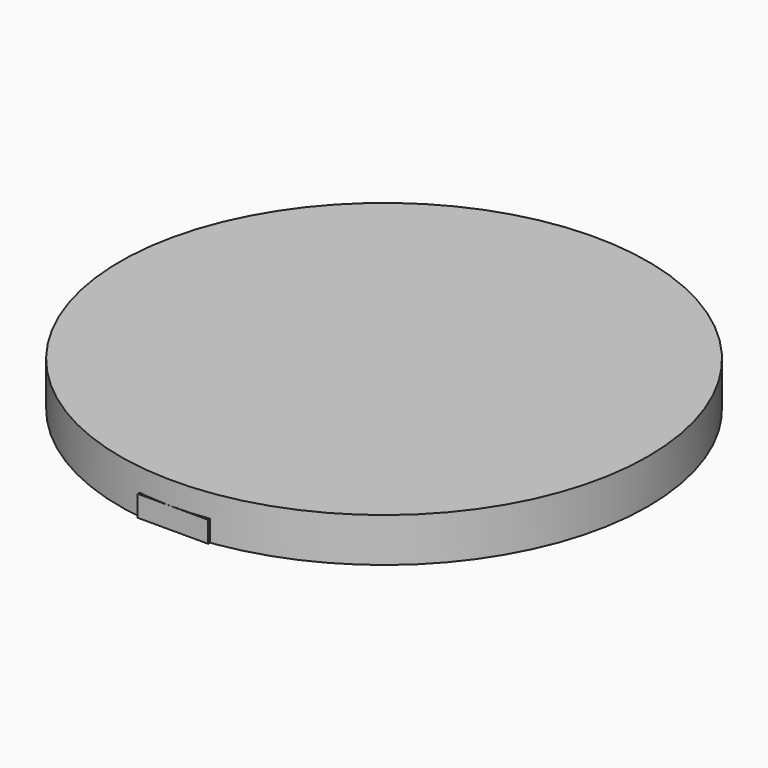
from build123d import *

# Parameters (mm, degrees)
F0_W     = 40
F0_H     = 300
F1_DEPTH = 12
F2_R     = 150
F3_DEPTH = 25


with BuildPart() as f1:
    # F0 (on Top) → F1 (new body)
    with BuildSketch(Plane.XY):
        Rectangle(F0_W, F0_H)
        with BuildLine():
            Line((-4.1, -125.9), (-4.1, 125.9))
            ThreePointArc((-4.1, 125.9), (-2.899138, 128.799138), (0, 130))
            ThreePointArc((0, 130), (2.899138, 128.799138), (4.1, 125.9))
            Line((4.1, 125.9), (4.1, -125.9))
            ThreePointArc((4.1, -125.9), (2.899138, -128.799138), (0, -130))
            ThreePointArc((0, -130), (-2.899138, -128.799138), (-4.1, -125.9))
        make_face(mode=Mode.SUBTRACT)
    extrude(amount=F1_DEPTH)


with BuildPart() as f3:
    # F2 (on Top) → F3 (new body)
    with BuildSketch(Plane.XY):
        Circle(F2_R)
    extrude(amount=F3_DEPTH)


solid = Compound([f1.part, f3.part])
